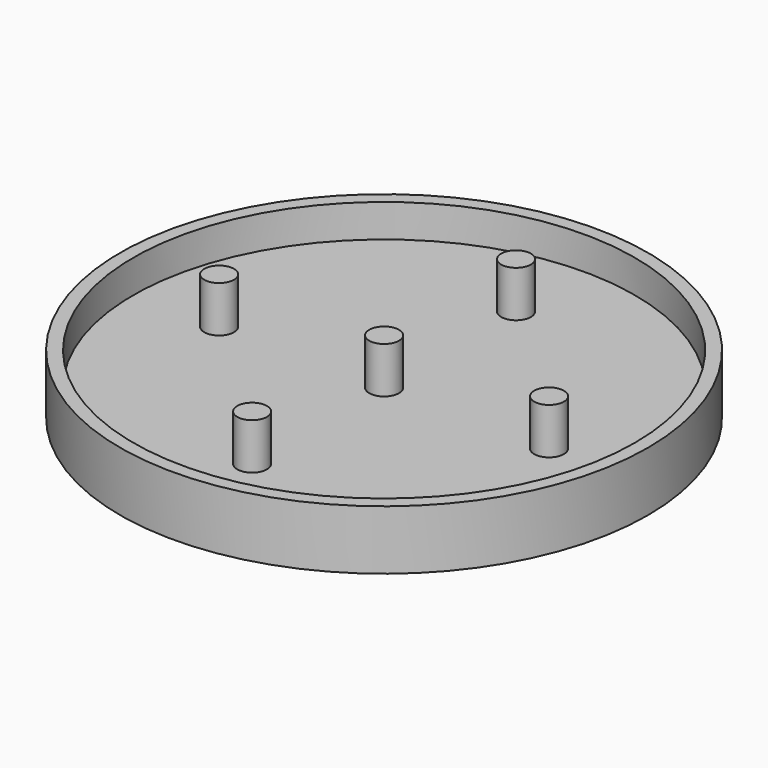
from build123d import *

# Parameters (mm, degrees)
F0_R     = 40
F0_R_2   = 38
F1_DEPTH = 9
F2_DEPTH = 4
F3_R     = 2.25
F4_DEPTH = 7


with BuildPart() as f1:
    # F0 (on Top) → F1 (new body)
    with BuildSketch(Plane.XY):
        Circle(F0_R)
        Circle(F0_R_2, mode=Mode.SUBTRACT)
    extrude(amount=F1_DEPTH)

    # F0 (on Top) → F2 (join)
    with BuildSketch(Plane.XY):
        Circle(F0_R_2)
    extrude(amount=F2_DEPTH)

    # F3 (on face) → F4 (join)
    with BuildSketch(Plane.XY.offset(4)):
        Circle(F3_R)
        with Locations((-25, 0)):
            Circle(F3_R)
        with Locations((25, 0)):
            Circle(F3_R)
        with Locations((0, 25)):
            Circle(F3_R)
        with Locations((0, -25)):
            Circle(F3_R)
    extrude(amount=F4_DEPTH)


solid = f1.part
